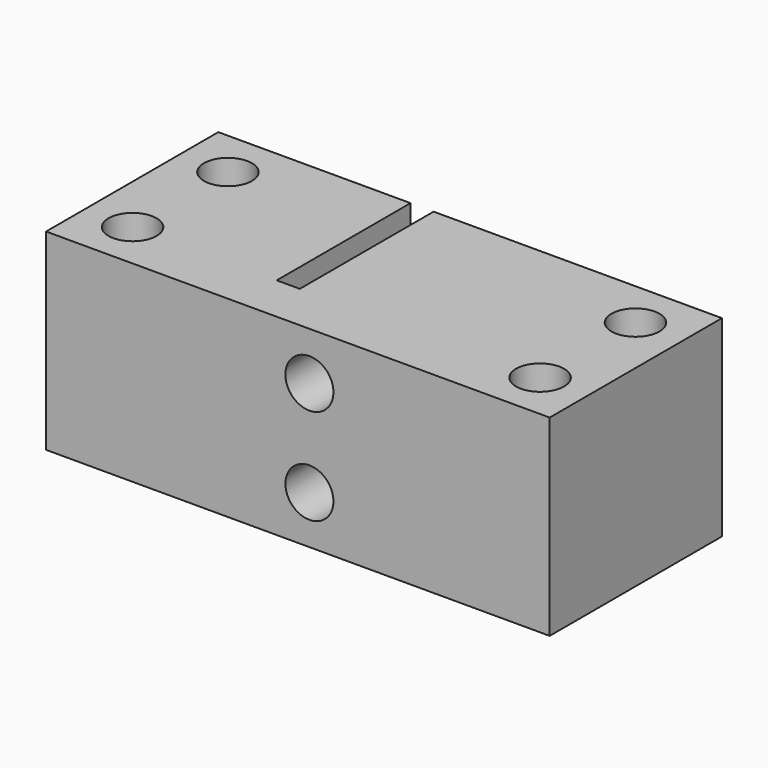
from build123d import *

# Parameters (mm, degrees)
F1_DEPTH = 25.4
F2_R     = 3.175
F3_DEPTH = 25.4
F4_R     = 3.175
F5_DEPTH = 28.448


with BuildPart() as f1:
    # F0 (on Top) → F1 (new body)
    with BuildSketch(Plane.XY):
        Polygon((0, 28.448), (0, 0), (66.548, 0), (66.548, 28.448), (28.448, 28.448), (28.448, 6.35), (25.4, 6.35), (25.4, 28.448), align=None)
    extrude(amount=F1_DEPTH)

    # F2 (on face) → F3 (cut)
    with BuildSketch(Plane.XY.offset(25.4)):
        with Locations((6.35, 6.35)):
            Circle(F2_R)
        with Locations((60.198, 6.35)):
            Circle(F2_R)
        with Locations((60.198, 22.098)):
            Circle(F2_R)
        with Locations((6.35, 22.098)):
            Circle(F2_R)
    extrude(amount=-F3_DEPTH, mode=Mode.SUBTRACT)

    # F4 (on face) → F5 (cut, through all)
    with BuildSketch(Plane(origin=(0, 28.448, 0), x_dir=(-1, 0, 0), z_dir=(0, 1, 0))):
        with Locations((-34.798, 6.35)):
            Circle(F4_R)
        with Locations((-34.798, 19.05)):
            Circle(F4_R)
    extrude(amount=-F5_DEPTH, mode=Mode.SUBTRACT)


solid = f1.part
